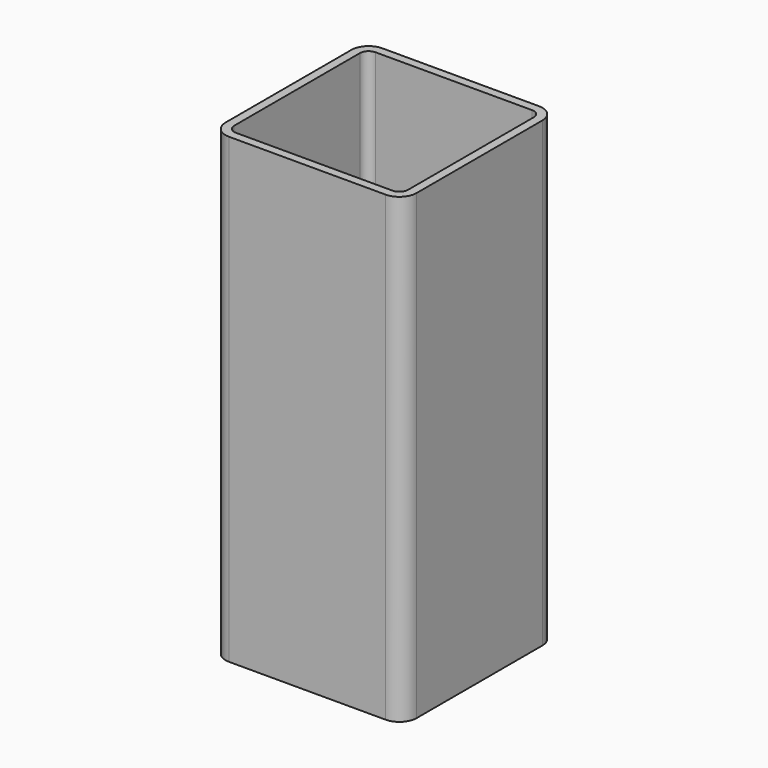
from build123d import *

# Parameters (mm, degrees)
F0_W     = 55.477142
F0_H     = 55.65466
F1_DEPTH = 134.265617
F2_R     = 5
F3_T     = -2.5


with BuildPart() as f1:
    # F0 (on Top) → F1 (new body)
    with BuildSketch(Plane.XY):
        Rectangle(F0_W, F0_H)
    extrude(amount=F1_DEPTH)

    # F2
    f2_edges = [f1.edges().sort_by_distance(p)[0] for p in [
        (27.738571, -27.82733, 67.132808),
        (27.738571, 27.82733, 67.132808),
        (-27.738571, -27.82733, 67.132808),
        (-27.738571, 27.82733, 67.132808),
    ]]
    fillet(f2_edges, radius=F2_R)

    # F3
    f3_openings = [f1.faces().sort_by_distance(p)[0] for p in [
        (0, 0, 134.265617),
        (0, 0, 0),
    ]]
    offset(amount=F3_T, openings=f3_openings)


solid = f1.part
